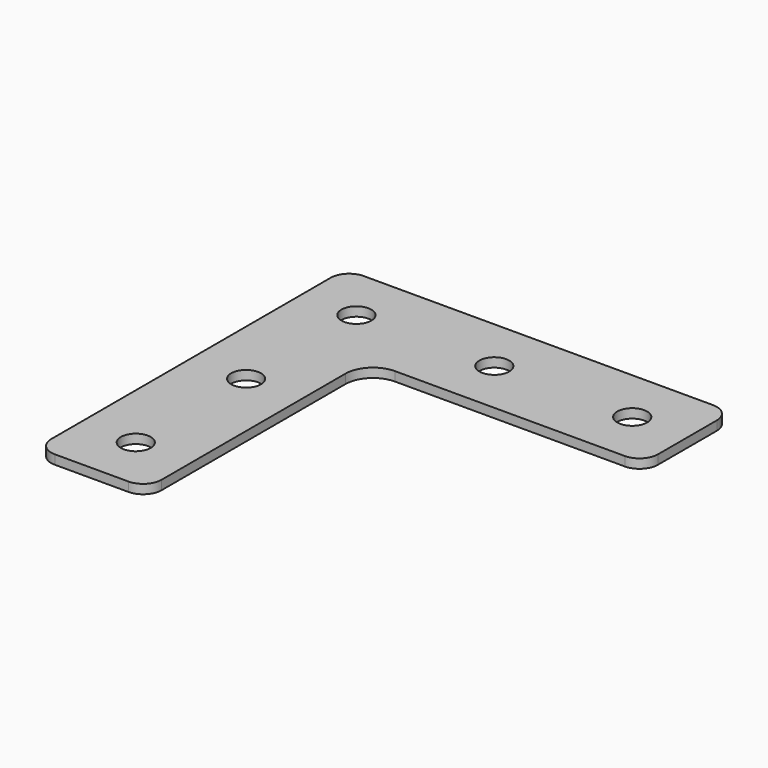
from build123d import *

# Parameters (mm, degrees)
F0_R     = 3.25
F1_DEPTH = 2


with BuildPart() as f1:
    # F0 (on Top) → F1 (new body)
    with BuildSketch(Plane.XY):
        with BuildLine():
            Line((80, 84), (4, 84))
            ThreePointArc((4, 84), (1.171573, 82.828427), (0, 80))
            Line((0, 80), (0, 4))
            ThreePointArc((0, 4), (1.171573, 1.171573), (4, 0))
            Line((4, 0), (20, 0))
            ThreePointArc((20, 0), (22.828427, 1.171573), (24, 4))
            Line((24, 4), (24, 54))
            ThreePointArc((24, 54), (25.757359, 58.242641), (30, 60))
            Line((30, 60), (80, 60))
            ThreePointArc((80, 60), (82.828427, 61.171573), (84, 64))
            Line((84, 64), (84, 80))
            ThreePointArc((84, 80), (82.828427, 82.828427), (80, 84))
        make_face()
        with Locations((12, 12)):
            Circle(F0_R, mode=Mode.SUBTRACT)
        with Locations((12, 42)):
            Circle(F0_R, mode=Mode.SUBTRACT)
        with Locations((12, 72)):
            Circle(F0_R, mode=Mode.SUBTRACT)
        with Locations((42, 72)):
            Circle(F0_R, mode=Mode.SUBTRACT)
        with Locations((72, 72)):
            Circle(F0_R, mode=Mode.SUBTRACT)
    extrude(amount=F1_DEPTH)


solid = f1.part
